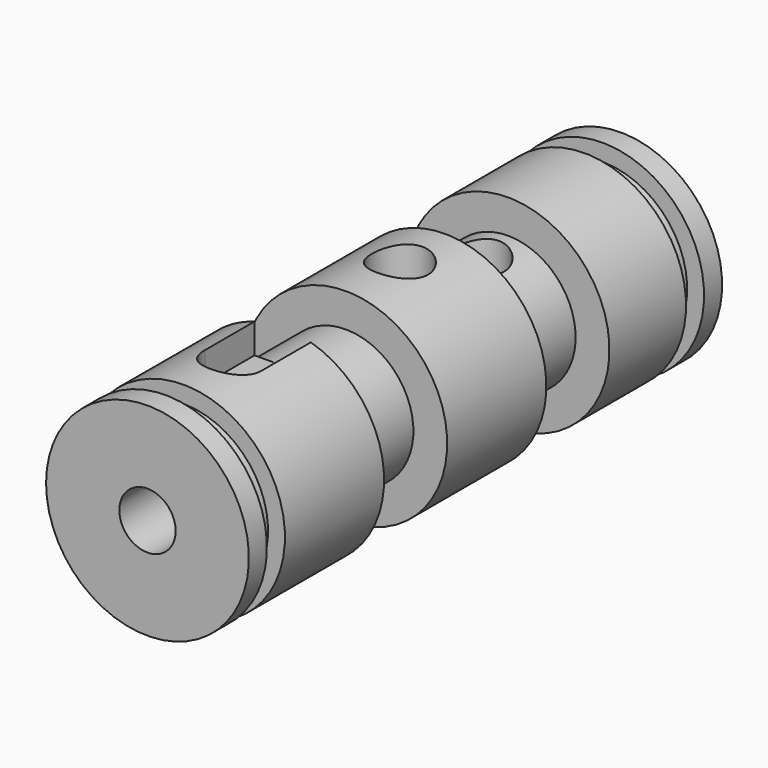
from build123d import *

# Parameters (mm, degrees)
F4_DEPTH = 1.5
F3_R     = 1.25
F5_DEPTH = 25
F6_COUNT = 2
F6_ANGLE = 180


with BuildPart() as f1:
    # F0 (on Top) → F1 (revolve)
    with BuildSketch(Plane.XY):
        Polygon((-4.5, 0), (-2.5, 0), (-1.25, 0), (-1.25, 22), (0, 23.25), (0, 26.25), (-4.5, 26.25), (-4.5, 25.25), (-3.75, 25.25), (-3.75, 24.25), (-4.5, 24.25), (-4.5, 20), (-3, 20), (-3, 16.5), (-4.5, 16.5), (-4.5, 11), (-3, 11), (-3, 7.5), (-4.5, 7.5), (-4.5, 2), (-3.75, 2), (-3.75, 1), (-4.5, 1), align=None)
    revolve(axis=Axis((0, 2.3840577891, 0), (0, -1, 0)))

    # F3 (on offset) → F5 (cut)
    with BuildSketch(Plane.XY.offset(4.5)):
        with Locations((0, 14)):
            Circle(F3_R)
        with Locations((0, 18.25)):
            Circle(F3_R)
    extrude(amount=-F5_DEPTH, mode=Mode.SUBTRACT)


with BuildPart() as f4:
    # F3 (on offset) → F4 (new body)
    with BuildSketch(Plane.XY.offset(4.5)):
        with BuildLine():
            Line((-1.25, 8.75), (-1.25, 4.75))
            ThreePointArc((-1.25, 4.75), (0, 3.5), (1.25, 4.75))
            Line((1.25, 4.75), (1.25, 8.75))
            Line((1.25, 8.75), (-1.25, 8.75))
        make_face()
    extrude(amount=-F4_DEPTH)


with BuildPart() as f6_1:
    # F6: instance of F4
    add(f4.part.rotate(Axis((0, 0, 0), (0, -1, 0)), 1 * F6_ANGLE / (F6_COUNT - 1)))


with BuildPart() as f1_1:
    add(f1.part)

    # F7: cut F4, F6_1
    add(f4.part, mode=Mode.SUBTRACT)
    add(f6_1.part, mode=Mode.SUBTRACT)


solid = f1_1.part
